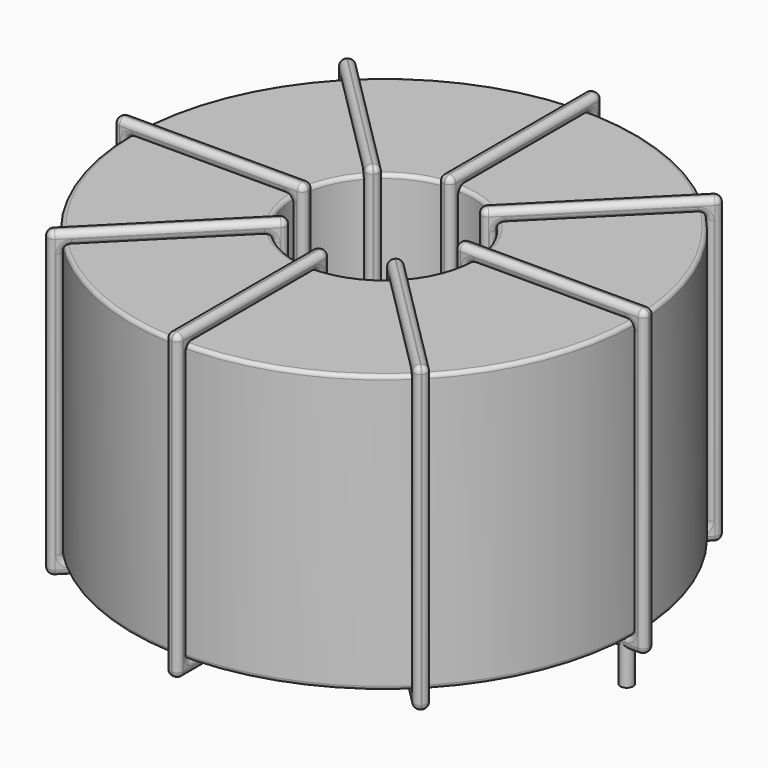
from build123d import *

# Parameters (mm, degrees)
SKETCH001_R       = 0.85
PAD001_DEPTH      = 0.85
PAD001_DEPTH_BACK = 5.2
SKETCH_R          = 32.85
SKETCH_R_2        = 11.516667
PAD_DEPTH         = 36.1
FILLET_R          = 0.5
SKETCH003_W       = 24.733333
SKETCH003_H       = 39.5
SKETCH003_W_2     = 21.333333
SKETCH003_H_2     = 36.1
PAD002_DEPTH      = 0.85
FILLET001_R       = 0.799
SKETCH004_W       = 24.733333
SKETCH004_H       = 39.5
SKETCH004_W_2     = 21.333333
SKETCH004_H_2     = 36.1
PAD003_DEPTH      = 0.85
FILLET002_R       = 0.799
SKETCH005_W       = 24.733333
SKETCH005_H       = 39.5
SKETCH005_W_2     = 21.333333
SKETCH005_H_2     = 36.1
PAD004_DEPTH      = 0.85
FILLET003_R       = 0.799
SKETCH006_W       = 24.733333
SKETCH006_H       = 39.5
SKETCH006_W_2     = 21.333333
SKETCH006_H_2     = 36.1
PAD005_DEPTH      = 0.85
FILLET004_R       = 0.799


with BuildPart() as pad001:
    # Sketch001 → Pad001 (new body, two sides)
    with BuildSketch(Plane.XY.offset(1.35)) as pad001_sk:
        Circle(SKETCH001_R)
        with Locations((63.2, 0)):
            Circle(SKETCH001_R)
    extrude(amount=PAD001_DEPTH)
    extrude(pad001_sk.sketch, amount=-PAD001_DEPTH_BACK)


with BuildPart() as fillet_body:
    # Sketch → Pad (new body)
    with BuildSketch(Plane.XY.offset(2.2)):
        with Locations((31.6, 0)):
            Circle(SKETCH_R)
        with Locations((31.6, 0)):
            Circle(SKETCH_R_2, mode=Mode.SUBTRACT)
    extrude(amount=PAD_DEPTH)

    # Fillet
    fillet_edges = [fillet_body.edges().sort_by_distance(p)[0] for p in [
        (20.083333, 0, 38.3),
        (-1.25, 0, 38.3),
        (-1.25, 0, 2.2),
    ]]
    fillet(fillet_edges, radius=FILLET_R)


with BuildPart() as fillet001:
    # Sketch003 → Pad002 (new body, symmetric)
    with BuildSketch(Plane(origin=(31.6, 0, 0), x_dir=(1, 0, 0), z_dir=(0, -1, 0))):
        with Locations((-22.183333, 20.25)):
            Rectangle(SKETCH003_W, SKETCH003_H)
        with Locations((-22.183333, 20.25)):
            Rectangle(SKETCH003_W_2, SKETCH003_H_2, mode=Mode.SUBTRACT)
        with Locations((22.183333, 20.25)):
            Rectangle(SKETCH003_W, SKETCH003_H)
        with Locations((22.183333, 20.25)):
            Rectangle(SKETCH003_W_2, SKETCH003_H_2, mode=Mode.SUBTRACT)
    extrude(amount=PAD002_DEPTH, both=True)

    # Fillet001
    fillet001_edges = [fillet001.edges().sort_by_distance(p)[0] for p in [
        (20.083333, 0, 38.3),
        (20.083333, 0, 2.2),
        (20.083333, 0.85, 20.25),
        (20.083333, -0.85, 20.25),
        (-2.95, 0, 40),
        (21.783333, 0, 40),
        (9.416667, 0.85, 40),
        (9.416667, -0.85, 40),
        (21.783333, 0, 0.5),
        (21.783333, 0.85, 20.25),
        (21.783333, -0.85, 20.25),
        (43.116667, 0, 38.3),
        (64.45, 0, 38.3),
        (53.783333, 0.85, 38.3),
        (53.783333, -0.85, 38.3),
        (64.45, 0, 2.2),
        (64.45, 0.85, 20.25),
        (64.45, -0.85, 20.25),
        (41.416667, 0, 40),
        (66.15, 0, 40),
        (53.783333, 0.85, 40),
        (53.783333, -0.85, 40),
        (66.15, 0, 0.5),
        (66.15, 0.85, 20.25),
        (66.15, -0.85, 20.25),
        (-1.25, 0, 38.3),
        (9.416667, 0.85, 38.3),
        (9.416667, -0.85, 38.3),
        (43.116667, 0, 2.2),
        (43.116667, 0.85, 20.25),
        (43.116667, -0.85, 20.25),
        (53.783333, 0.85, 2.2),
        (53.783333, -0.85, 2.2),
        (41.416667, 0, 0.5),
        (53.783333, 0.85, 0.5),
        (53.783333, -0.85, 0.5),
        (41.416667, 0.85, 20.25),
        (41.416667, -0.85, 20.25),
        (-2.95, 0, 0.5),
        (9.416667, 0.85, 0.5),
        (9.416667, -0.85, 0.5),
        (-2.95, 0.85, 20.25),
        (-2.95, -0.85, 20.25),
        (-1.25, 0, 2.2),
        (-1.25, 0.85, 20.25),
        (-1.25, -0.85, 20.25),
        (9.416667, 0.85, 2.2),
        (9.416667, -0.85, 2.2),
    ]]
    fillet(fillet001_edges, radius=FILLET001_R)


with BuildPart() as fillet002:
    # Sketch004 → Pad003 (new body, symmetric)
    with BuildSketch(Plane(origin=(31.6, 0, 0), x_dir=(0.707107, 0.707107, 0), z_dir=(0.707107, -0.707107, 0))):
        with Locations((-22.183333, 20.25)):
            Rectangle(SKETCH004_W, SKETCH004_H)
        with Locations((-22.183333, 20.25)):
            Rectangle(SKETCH004_W_2, SKETCH004_H_2, mode=Mode.SUBTRACT)
        with Locations((22.183333, 20.25)):
            Rectangle(SKETCH004_W, SKETCH004_H)
        with Locations((22.183333, 20.25)):
            Rectangle(SKETCH004_W_2, SKETCH004_H_2, mode=Mode.SUBTRACT)
    extrude(amount=PAD003_DEPTH, both=True)

    # Fillet002
    fillet002_edges = [fillet002.edges().sort_by_distance(p)[0] for p in [
        (23.456487, -8.143513, 38.3),
        (23.456487, -8.143513, 2.2),
        (22.855446, -7.542472, 20.25),
        (24.057528, -8.744554, 20.25),
        (7.169461, -24.430539, 40),
        (24.658568, -6.941432, 40),
        (15.312974, -15.084945, 40),
        (16.515055, -16.287026, 40),
        (24.658568, -6.941432, 0.5),
        (24.057528, -6.340391, 20.25),
        (25.259609, -7.542472, 20.25),
        (39.743513, 8.143513, 38.3),
        (54.828458, 23.228458, 38.3),
        (46.684945, 16.287026, 38.3),
        (47.887026, 15.084945, 38.3),
        (54.828458, 23.228458, 2.2),
        (54.227417, 23.829499, 20.25),
        (55.429499, 22.627417, 20.25),
        (38.541432, 6.941432, 0.5),
        (38.541432, 6.941432, 40),
        (37.940391, 7.542472, 20.25),
        (39.142472, 6.340391, 20.25),
        (56.030539, 24.430539, 0.5),
        (46.684945, 16.287026, 0.5),
        (47.887026, 15.084945, 0.5),
        (8.371542, -23.228458, 38.3),
        (15.312974, -15.084945, 38.3),
        (16.515055, -16.287026, 38.3),
        (39.743513, 8.143513, 2.2),
        (39.142472, 8.744554, 20.25),
        (40.344554, 7.542472, 20.25),
        (46.684945, 16.287026, 2.2),
        (47.887026, 15.084945, 2.2),
        (56.030539, 24.430539, 40),
        (55.429499, 25.03158, 20.25),
        (56.63158, 23.829499, 20.25),
        (46.684945, 16.287026, 40),
        (47.887026, 15.084945, 40),
        (7.169461, -24.430539, 0.5),
        (15.312974, -15.084945, 0.5),
        (16.515055, -16.287026, 0.5),
        (6.56842, -23.829499, 20.25),
        (7.770501, -25.03158, 20.25),
        (8.371542, -23.228458, 2.2),
        (7.770501, -22.627417, 20.25),
        (8.972583, -23.829499, 20.25),
        (15.312974, -15.084945, 2.2),
        (16.515055, -16.287026, 2.2),
    ]]
    fillet(fillet002_edges, radius=FILLET002_R)


with BuildPart() as fillet003:
    # Sketch005 → Pad004 (new body, symmetric)
    with BuildSketch(Plane(origin=(31.6, 0, 0), x_dir=(0.707107, -0.707107, 0), z_dir=(-0.707107, -0.707107, 0))):
        with Locations((-22.183333, 20.25)):
            Rectangle(SKETCH005_W, SKETCH005_H)
        with Locations((-22.183333, 20.25)):
            Rectangle(SKETCH005_W_2, SKETCH005_H_2, mode=Mode.SUBTRACT)
        with Locations((22.183333, 20.25)):
            Rectangle(SKETCH005_W, SKETCH005_H)
        with Locations((22.183333, 20.25)):
            Rectangle(SKETCH005_W_2, SKETCH005_H_2, mode=Mode.SUBTRACT)
    extrude(amount=PAD004_DEPTH, both=True)

    # Fillet003
    fillet003_edges = [fillet003.edges().sort_by_distance(p)[0] for p in [
        (23.456487, 8.143513, 38.3),
        (23.456487, 8.143513, 2.2),
        (24.057528, 8.744554, 20.25),
        (22.855446, 7.542472, 20.25),
        (7.169461, 24.430539, 40),
        (24.658568, 6.941432, 40),
        (16.515055, 16.287026, 40),
        (15.312974, 15.084945, 40),
        (24.658568, 6.941432, 0.5),
        (25.259609, 7.542472, 20.25),
        (24.057528, 6.340391, 20.25),
        (39.743513, -8.143513, 38.3),
        (54.828458, -23.228458, 38.3),
        (47.887026, -15.084945, 38.3),
        (46.684945, -16.287026, 38.3),
        (54.828458, -23.228458, 2.2),
        (55.429499, -22.627417, 20.25),
        (54.227417, -23.829499, 20.25),
        (38.541432, -6.941432, 0.5),
        (38.541432, -6.941432, 40),
        (39.142472, -6.340391, 20.25),
        (37.940391, -7.542472, 20.25),
        (56.030539, -24.430539, 0.5),
        (47.887026, -15.084945, 0.5),
        (46.684945, -16.287026, 0.5),
        (8.371542, 23.228458, 38.3),
        (16.515055, 16.287026, 38.3),
        (15.312974, 15.084945, 38.3),
        (39.743513, -8.143513, 2.2),
        (40.344554, -7.542472, 20.25),
        (39.142472, -8.744554, 20.25),
        (47.887026, -15.084945, 2.2),
        (46.684945, -16.287026, 2.2),
        (56.030539, -24.430539, 40),
        (56.63158, -23.829499, 20.25),
        (55.429499, -25.03158, 20.25),
        (47.887026, -15.084945, 40),
        (46.684945, -16.287026, 40),
        (7.169461, 24.430539, 0.5),
        (16.515055, 16.287026, 0.5),
        (15.312974, 15.084945, 0.5),
        (7.770501, 25.03158, 20.25),
        (6.56842, 23.829499, 20.25),
        (8.371542, 23.228458, 2.2),
        (8.972583, 23.829499, 20.25),
        (7.770501, 22.627417, 20.25),
        (16.515055, 16.287026, 2.2),
        (15.312974, 15.084945, 2.2),
    ]]
    fillet(fillet003_edges, radius=FILLET003_R)


with BuildPart() as fillet004:
    # Sketch006 → Pad005 (new body, symmetric)
    with BuildSketch(Plane.YZ.offset(31.6)):
        with Locations((-22.183333, 20.25)):
            Rectangle(SKETCH006_W, SKETCH006_H)
        with Locations((-22.183333, 20.25)):
            Rectangle(SKETCH006_W_2, SKETCH006_H_2, mode=Mode.SUBTRACT)
        with Locations((22.183333, 20.25)):
            Rectangle(SKETCH006_W, SKETCH006_H)
        with Locations((22.183333, 20.25)):
            Rectangle(SKETCH006_W_2, SKETCH006_H_2, mode=Mode.SUBTRACT)
    extrude(amount=PAD005_DEPTH, both=True)

    # Fillet004
    fillet004_edges = [fillet004.edges().sort_by_distance(p)[0] for p in [
        (31.6, 32.85, 38.3),
        (31.6, 32.85, 2.2),
        (30.75, 32.85, 20.25),
        (32.45, 32.85, 20.25),
        (31.6, 34.55, 0.5),
        (31.6, 9.816667, 0.5),
        (30.75, 22.183333, 0.5),
        (32.45, 22.183333, 0.5),
        (31.6, 9.816667, 40),
        (30.75, 9.816667, 20.25),
        (32.45, 9.816667, 20.25),
        (31.6, -32.85, 38.3),
        (31.6, -11.516667, 38.3),
        (30.75, -22.183333, 38.3),
        (32.45, -22.183333, 38.3),
        (31.6, -11.516667, 2.2),
        (30.75, -11.516667, 20.25),
        (32.45, -11.516667, 20.25),
        (31.6, -9.816667, 0.5),
        (31.6, -34.55, 0.5),
        (30.75, -22.183333, 0.5),
        (32.45, -22.183333, 0.5),
        (31.6, -34.55, 40),
        (30.75, -34.55, 20.25),
        (32.45, -34.55, 20.25),
        (31.6, 11.516667, 38.3),
        (30.75, 22.183333, 38.3),
        (32.45, 22.183333, 38.3),
        (31.6, -32.85, 2.2),
        (30.75, -32.85, 20.25),
        (32.45, -32.85, 20.25),
        (30.75, -22.183333, 2.2),
        (32.45, -22.183333, 2.2),
        (31.6, -9.816667, 40),
        (30.75, -22.183333, 40),
        (32.45, -22.183333, 40),
        (30.75, -9.816667, 20.25),
        (32.45, -9.816667, 20.25),
        (31.6, 34.55, 40),
        (30.75, 22.183333, 40),
        (32.45, 22.183333, 40),
        (30.75, 34.55, 20.25),
        (32.45, 34.55, 20.25),
        (31.6, 11.516667, 2.2),
        (30.75, 11.516667, 20.25),
        (32.45, 11.516667, 20.25),
        (30.75, 22.183333, 2.2),
        (32.45, 22.183333, 2.2),
    ]]
    fillet(fillet004_edges, radius=FILLET004_R)


solid = Compound([pad001.part, fillet_body.part, fillet001.part, fillet002.part, fillet003.part, fillet004.part])
